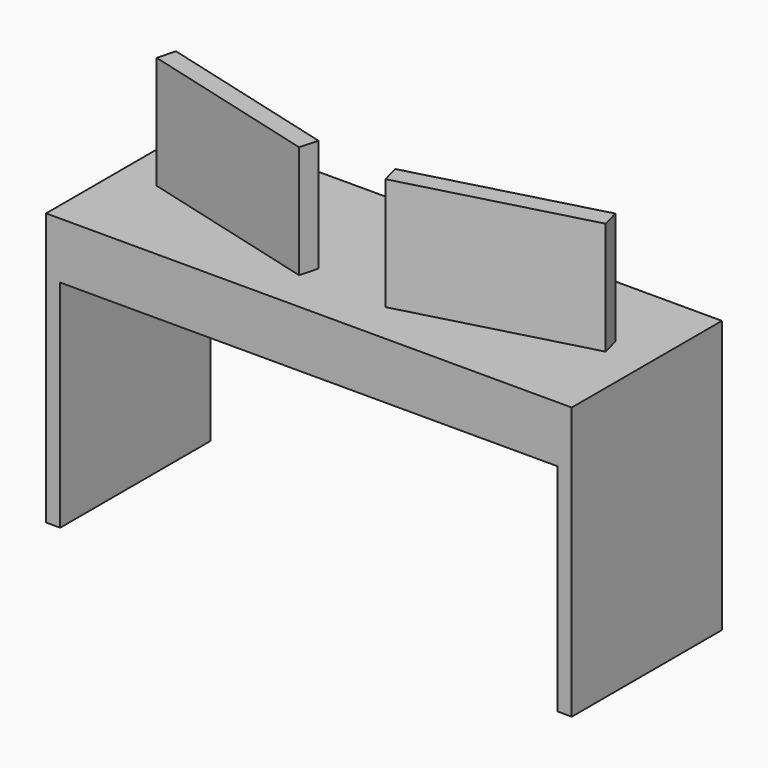
from build123d import *

# Parameters (mm, degrees)
F0_W     = 38.1
F0_H     = 508
F1_DEPTH = 584.2
F2_W     = 1384.3
F2_H     = 508
F2_W_2   = 38.1
F3_DEPTH = 152.4
F5_DEPTH = 304.8


with BuildPart() as f1:
    # F0 (on Top) → F1 (new body)
    with BuildSketch(Plane.XY):
        with Locations((19.05, 254)):
            Rectangle(F0_W, F0_H)
        with Locations((1403.35, 254)):
            Rectangle(F0_W, F0_H)
    extrude(amount=F1_DEPTH)

    # F2 (on face) → F3 (join)
    with BuildSketch(Plane.XY.offset(584.2)):
        with Locations((730.25, 254)):
            Rectangle(F2_W, F2_H)
        with Locations((19.05, 254)):
            Rectangle(F2_W_2, F2_H)
    extrude(amount=F3_DEPTH)

    # F4 (on face) → F5 (join)
    with BuildSketch(Plane.XY.offset(736.6)):
        Polygon((594.371156, 112.925447), (607.519164, 161.994479), (116.828844, 293.474553), (103.680836, 244.405521), align=None)
        Polygon((1318.719164, 244.405521), (1305.571156, 293.474553), (814.880836, 161.994479), (828.028844, 112.925447), align=None)
    extrude(amount=F5_DEPTH)


solid = f1.part
